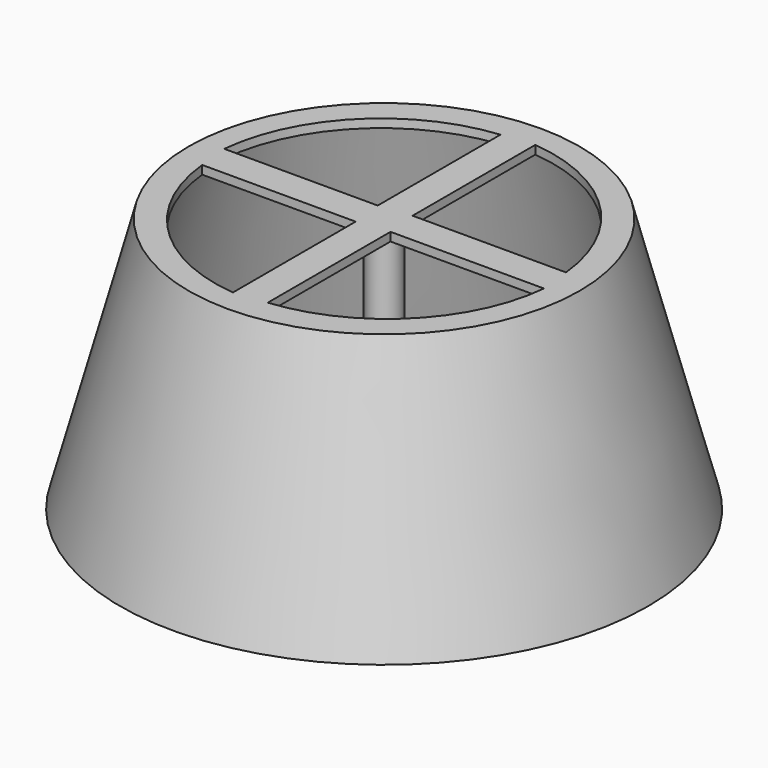
from build123d import *

# Parameters (mm, degrees)
F3_DEPTH = 25
F4_R     = 1.888711
F5_DEPTH = 10


with BuildPart() as f1:
    # F0 (on Front) → F1 (revolve)
    with BuildSketch(Plane.XZ):
        Polygon((21.7686, 28.996194), (29.538106, 0), (31.009124, 0), (22.970648, 30), (0, 30), (0, 28.996194), align=None)
    revolve(axis=Axis((0, 0, 15), (0, 0, -1)))

    # F2 (on face) → F3 (cut)
    with BuildSketch(Plane.XY.offset(30)):
        with BuildLine():
            Line((-2.089355, 1.671198), (-2.089355, 19.700249))
            ThreePointArc((-2.089355, 19.700249), (-14.319559, 13.901403), (-20.118406, 1.671198))
            Line((-20.118406, 1.671198), (-2.089355, 1.671198))
        make_face()
        with BuildLine():
            Line((1.671198, 20.118406), (1.671198, 2.089355))
            Line((1.671198, 2.089355), (19.700249, 2.089355))
            ThreePointArc((19.700249, 2.089355), (13.901403, 14.319559), (1.671198, 20.118406))
        make_face()
        with BuildLine():
            Line((-1.671198, -2.089355), (-19.700249, -2.089355))
            ThreePointArc((-19.700249, -2.089355), (-13.901403, -14.319559), (-1.671198, -20.118406))
            Line((-1.671198, -20.118406), (-1.671198, -2.089355))
        make_face()
        with BuildLine():
            Line((2.089355, -1.671198), (2.089355, -19.700249))
            ThreePointArc((2.089355, -19.700249), (14.319559, -13.901403), (20.118406, -1.671198))
            Line((20.118406, -1.671198), (2.089355, -1.671198))
        make_face()
    extrude(amount=-F3_DEPTH, mode=Mode.SUBTRACT)

    # F4 (on face) → F5 (join)
    with BuildSketch(Plane(origin=(0, 0, 28.996194), x_dir=(1, 0, 0), z_dir=(0, 0, -1))):
        Circle(F4_R)
    extrude(amount=F5_DEPTH)


solid = f1.part
